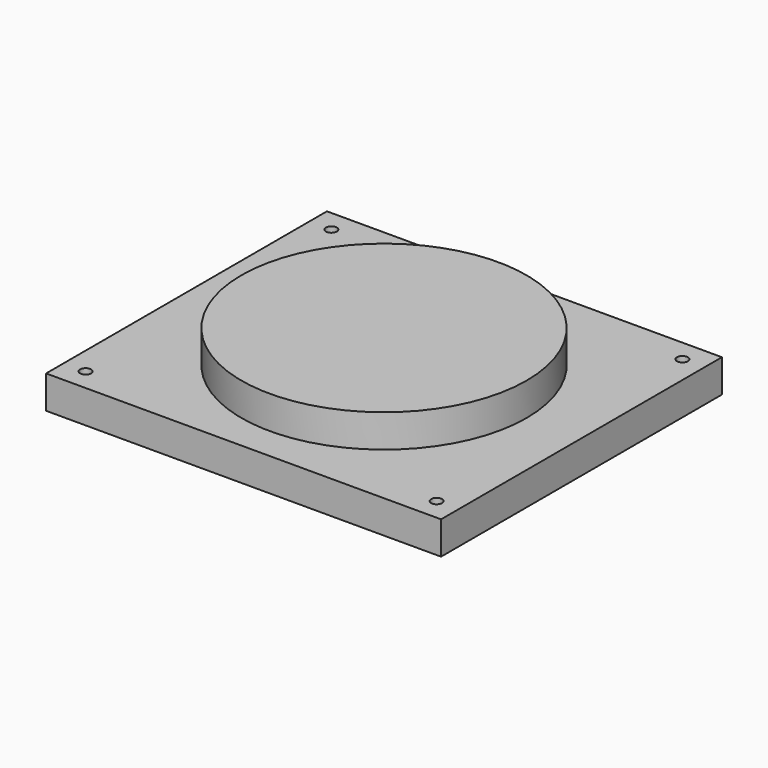
from build123d import *

# Parameters (mm, degrees)
F0_R     = 82.55
F1_DEPTH = 38.1
F0_W     = 228.6
F0_H     = 203.2
F0_R_2   = 3.175
F2_DEPTH = 19.05


with BuildPart() as f1:
    # F0 (on Top) → F1 (new body)
    with BuildSketch(Plane.XY):
        with Locations((114.3, 101.6)):
            Circle(F0_R)
    extrude(amount=F1_DEPTH)

    # F0 (on Top) → F2 (join)
    with BuildSketch(Plane.XY):
        with Locations((114.3, 101.6)):
            Rectangle(F0_W, F0_H)
        with Locations((12.7, 12.7)):
            Circle(F0_R_2, mode=Mode.SUBTRACT)
        with Locations((215.9, 12.7)):
            Circle(F0_R_2, mode=Mode.SUBTRACT)
        with Locations((114.3, 101.6)):
            Circle(F0_R, mode=Mode.SUBTRACT)
        with Locations((12.7, 190.5)):
            Circle(F0_R_2, mode=Mode.SUBTRACT)
        with Locations((215.9, 190.5)):
            Circle(F0_R_2, mode=Mode.SUBTRACT)
    extrude(amount=F2_DEPTH)


solid = f1.part
